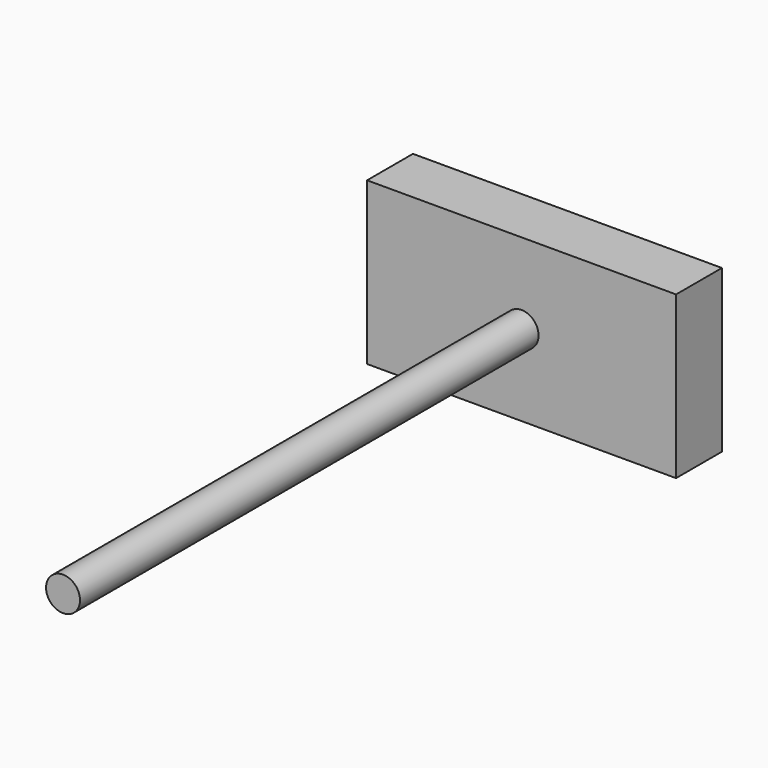
from build123d import *

# Parameters (mm, degrees)
F0_R     = 7.525437
F1_DEPTH = 254
F2_W     = 68.459995
F2_H     = 35.839204
F3_DEPTH = 25.4


with BuildPart() as f1:
    # F0 (on Front) → F1 (new body)
    with BuildSketch(Plane.XZ):
        Circle(F0_R)
    extrude(amount=F1_DEPTH)

    # F2 (on Front) → F3 (join)
    with BuildSketch(Plane.XZ):
        with Locations((34.229997, -17.919602)):
            Rectangle(F2_W, F2_H)
        with Locations((34.229997, 17.919602)):
            Rectangle(F2_W, F2_H)
        with Locations((-34.229997, -17.919602)):
            Rectangle(F2_W, F2_H)
        with Locations((-34.229997, 17.919602)):
            Rectangle(F2_W, F2_H)
    extrude(amount=-F3_DEPTH)


solid = f1.part
